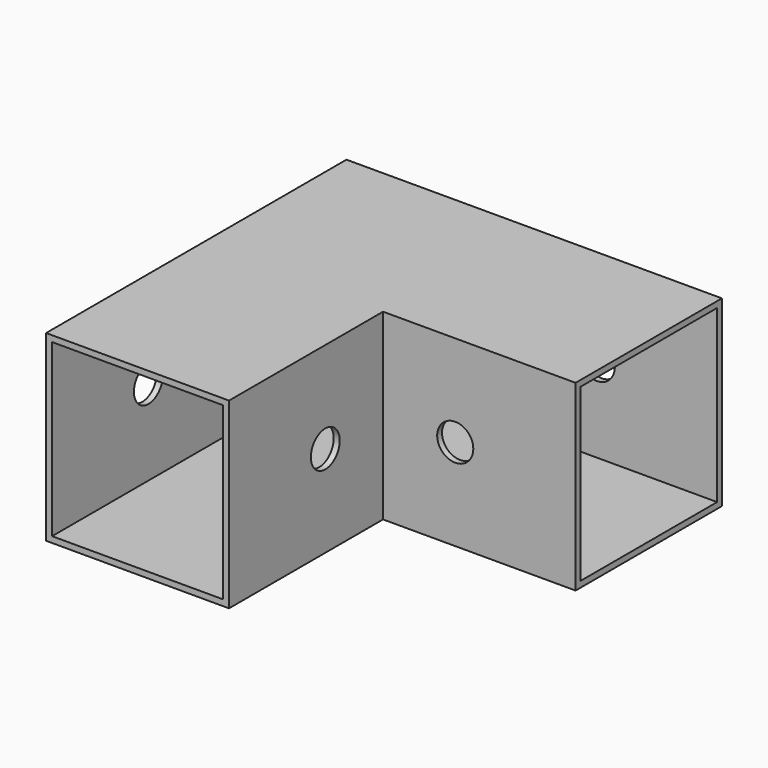
from build123d import *

# Parameters (mm, degrees)
F1_DEPTH   = 96.52
F2_W       = 90.17
F2_H       = 90.17
F3_DEPTH   = 106.68
F4_W       = 90.17
F4_H       = 90.17
F5_DEPTH   = 194.945
F8_D       = 19.05
F8_ON_F6_D = 19.05


with BuildPart() as f1:
    # F0 (on Top) → F1 (new body)
    with BuildSketch(Plane.XY):
        Polygon((198.12, 0), (0, 0), (0, -198.12), (96.52, -198.12), (96.52, -96.52), (198.12, -96.52), align=None)
    extrude(amount=F1_DEPTH)

    # F2 (on face) → F3 (cut)
    with BuildSketch(Plane.XZ.offset(198.12)):
        with Locations((48.26, 48.26)):
            Rectangle(F2_W, F2_H)
    extrude(amount=-F3_DEPTH, mode=Mode.SUBTRACT)

    # F4 (on face) → F5 (cut, through all)
    with BuildSketch(Plane.YZ.offset(198.12)):
        with Locations((-48.26, 48.26)):
            Rectangle(F4_W, F4_H)
    extrude(amount=-F5_DEPTH, mode=Mode.SUBTRACT)

    # F8 (through all)
    with Locations(Plane(origin=(0, 0, 0), x_dir=(-1, 0, 0), z_dir=(0, 1, 0))):
        with Locations((-134.62, 48.26)):
            Hole(F8_D / 2)

    # F8 on F6 (through all)
    with Locations(Plane(origin=(0, 0, 0), x_dir=(0, -1, 0), z_dir=(-1, 0, 0))):
        with Locations((134.62, 48.26)):
            Hole(F8_ON_F6_D / 2)


solid = f1.part
